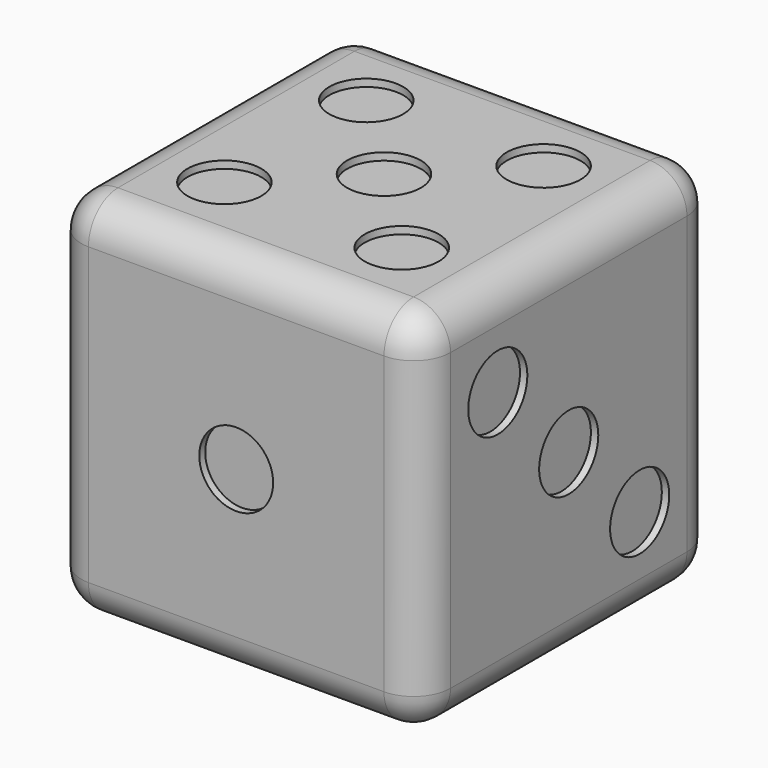
from build123d import *

# Parameters (mm, degrees)
F0_W      = 50
F0_H      = 50
F1_DEPTH  = 50
F2_R      = 5
F3_R      = 5
F4_DEPTH  = 1
F5_R      = 5
F6_DEPTH  = 1
F7_R      = 5
F8_DEPTH  = 1
F9_R      = 5
F10_DEPTH = 1
F11_R     = 5
F12_DEPTH = 1
F13_R     = 5
F14_DEPTH = 1


with BuildPart() as f1:
    # F0 (on Front) → F1 (new body)
    with BuildSketch(Plane.XZ):
        with Locations((25, 25)):
            Rectangle(F0_W, F0_H)
    extrude(amount=F1_DEPTH)

    # F2
    f2_edges = [f1.edges().sort_by_distance(p)[0] for p in [
        (50, -50, 25),
        (50, -25, 50),
        (25, -50, 50),
        (25, -50, 0),
        (50, -25, 0),
        (50, 0, 25),
        (25, 0, 50),
        (0, -25, 50),
        (0, 0, 25),
        (25, 0, 0),
        (0, -25, 0),
        (0, -50, 25),
    ]]
    fillet(f2_edges, radius=F2_R)

    # F3 (on face) → F4 (cut)
    with BuildSketch(Plane.XZ.offset(50)):
        with Locations((25, 25)):
            Circle(F3_R)
    extrude(amount=-F4_DEPTH, mode=Mode.SUBTRACT)

    # F5 (on face) → F6 (cut)
    with BuildSketch(Plane(origin=(0, 0, 0), x_dir=(-1, 0, 0), z_dir=(0, 1, 0))):
        with Locations((-37, 37)):
            Circle(F5_R)
        with Locations((-13, 37)):
            Circle(F5_R)
        with Locations((-37, 25)):
            Circle(F5_R)
        with Locations((-13, 25)):
            Circle(F5_R)
        with Locations((-13, 13)):
            Circle(F5_R)
        with Locations((-37, 13)):
            Circle(F5_R)
    extrude(amount=-F6_DEPTH, mode=Mode.SUBTRACT)

    # F7 (on face) → F8 (cut)
    with BuildSketch(Plane.XY.offset(50)):
        with Locations((37, -13)):
            Circle(F7_R)
        with Locations((37, -37)):
            Circle(F7_R)
        with Locations((25, -25)):
            Circle(F7_R)
        with Locations((13, -13)):
            Circle(F7_R)
        with Locations((13, -37)):
            Circle(F7_R)
    extrude(amount=-F8_DEPTH, mode=Mode.SUBTRACT)

    # F9 (on face) → F10 (cut)
    with BuildSketch(Plane(origin=(0, 0, 0), x_dir=(1, 0, 0), z_dir=(0, 0, -1))):
        with Locations((37, 37)):
            Circle(F9_R)
        with Locations((13, 13)):
            Circle(F9_R)
    extrude(amount=-F10_DEPTH, mode=Mode.SUBTRACT)

    # F11 (on face) → F12 (cut)
    with BuildSketch(Plane.YZ.offset(50)):
        with Locations((-37, 37)):
            Circle(F11_R)
        with Locations((-25, 25)):
            Circle(F11_R)
        with Locations((-13, 13)):
            Circle(F11_R)
    extrude(amount=-F12_DEPTH, mode=Mode.SUBTRACT)

    # F13 (on face) → F14 (cut)
    with BuildSketch(Plane(origin=(0, 0, 0), x_dir=(0, -1, 0), z_dir=(-1, 0, 0))):
        with Locations((37, 37)):
            Circle(F13_R)
        with Locations((37, 13)):
            Circle(F13_R)
        with Locations((13, 13)):
            Circle(F13_R)
        with Locations((13, 37)):
            Circle(F13_R)
    extrude(amount=-F14_DEPTH, mode=Mode.SUBTRACT)


solid = f1.part
